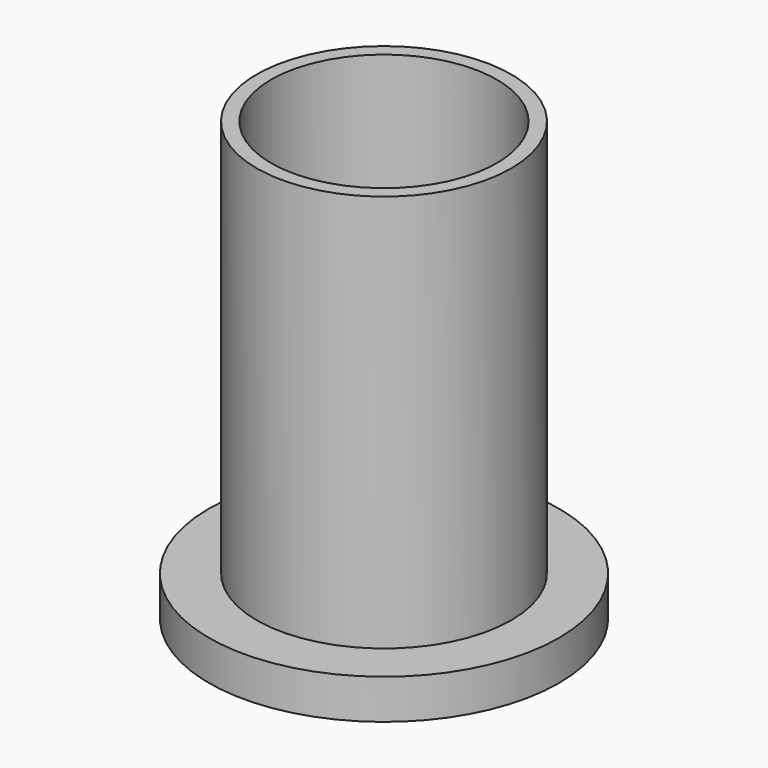
from build123d import *

# Parameters (mm, degrees)
F0_R     = 16
F1_DEPTH = 55
F2_R     = 22
F3_DEPTH = 5
F5_D     = 28.4


with BuildPart() as f1:
    # F0 (on Top) → F1 (new body)
    with BuildSketch(Plane.XY):
        Circle(F0_R)
    extrude(amount=F1_DEPTH)

    # F2 (on Top) → F3 (join)
    with BuildSketch(Plane.XY):
        Circle(F2_R)
    extrude(amount=F3_DEPTH)

    # F5 (through all)
    with Locations(Plane(origin=(0, 0, 0), x_dir=(1, 0, 0), z_dir=(0, 0, -1))):
        with Locations((0, 0)):
            Hole(F5_D / 2)


solid = f1.part
